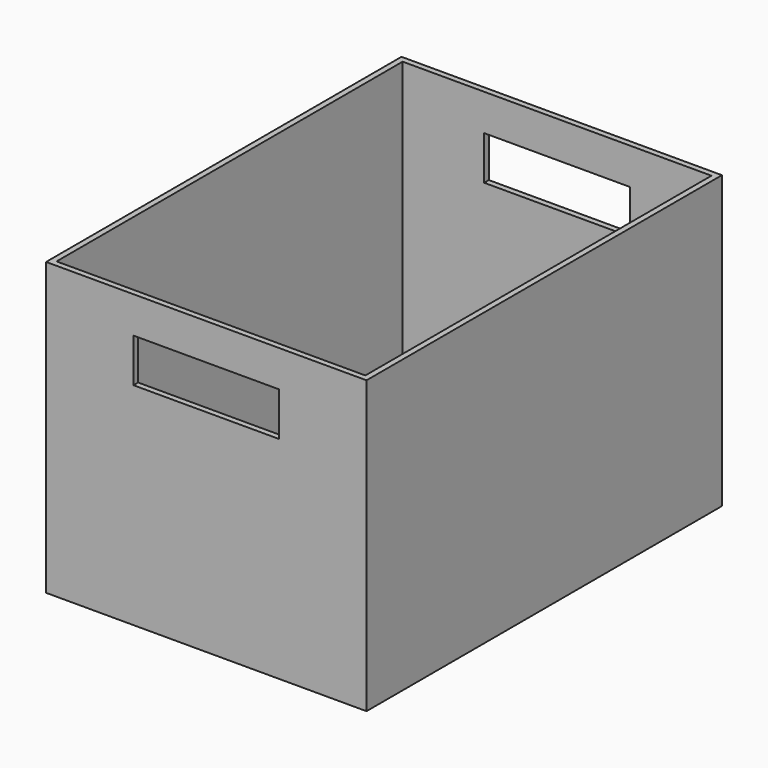
from build123d import *

# Parameters (mm, degrees)
F0_W     = 220
F0_H     = 200
F1_DEPTH = 305
F2_T     = -4
F3_W     = 100
F3_H     = 30
F4_DEPTH = 305.001


with BuildPart() as f1:
    # F0 (on Front) → F1 (new body)
    with BuildSketch(Plane.XZ):
        with Locations((110, 100)):
            Rectangle(F0_W, F0_H)
    extrude(amount=F1_DEPTH)

    # F2
    f2_openings = [f1.faces().sort_by_distance(p)[0] for p in [
        (110, -152.5, 200),
    ]]
    offset(amount=F2_T, openings=f2_openings)

    # F3 (on face) → F4 (cut, through all)
    with BuildSketch(Plane.XZ.offset(305)):
        with Locations((110, 160)):
            Rectangle(F3_W, F3_H)
    extrude(amount=-F4_DEPTH, mode=Mode.SUBTRACT)


solid = f1.part
